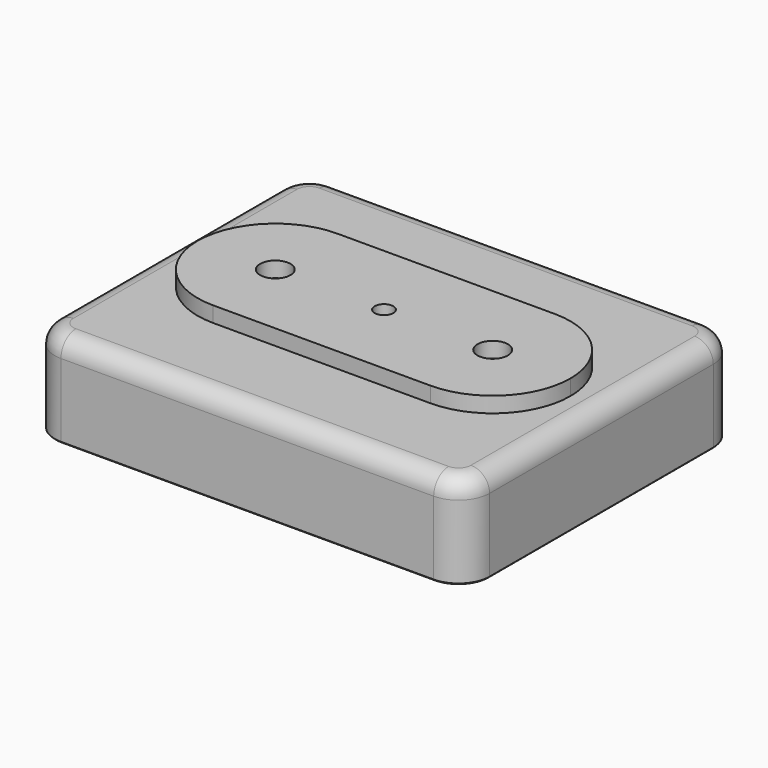
from build123d import *

# Parameters (mm, degrees)
F1_DEPTH = 38.1
F2_R     = 7.62
F3_R     = 12.7
F3_R_2   = 5.715
F4_DEPTH = 12.7
F5_DEPTH = 38.101
F6_SIZE  = 0.508
F7_R     = 6.223
F7_R_2   = 3.81
F8_DEPTH = 6.35


with BuildPart() as f1:
    # F0 (on Top) → F1 (new body)
    with BuildSketch(Plane.XY):
        with BuildLine():
            Line((76.2, 69.85), (-76.2, 69.85))
            ThreePointArc((-76.2, 69.85), (-85.180256, 66.130256), (-88.9, 57.15))
            Line((-88.9, 57.15), (-88.9, -57.15))
            ThreePointArc((-88.9, -57.15), (-85.180256, -66.130256), (-76.2, -69.85))
            Line((-76.2, -69.85), (76.2, -69.85))
            ThreePointArc((76.2, -69.85), (85.180256, -66.130256), (88.9, -57.15))
            Line((88.9, -57.15), (88.9, 57.15))
            ThreePointArc((88.9, 57.15), (85.180256, 66.130256), (76.2, 69.85))
        make_face()
    extrude(amount=-F1_DEPTH)

    # F2
    f2_edges = [f1.edges().sort_by_distance(p)[0] for p in [
        (0, -69.85, 0),
    ]]
    fillet(f2_edges, radius=F2_R)

    # F3 (on face) → F4 (cut)
    with BuildSketch(Plane(origin=(0, 0, -38.1), x_dir=(1, 0, 0), z_dir=(0, 0, -1))):
        with Locations((-44.45, 0)):
            Circle(F3_R)
        with Locations((-44.45, 0)):
            Circle(F3_R_2, mode=Mode.SUBTRACT)
        with Locations((-44.45, 0)):
            Circle(F3_R_2)
        with Locations((44.45, 0)):
            Circle(F3_R)
        with Locations((44.45, 0)):
            Circle(F3_R_2, mode=Mode.SUBTRACT)
        with Locations((44.45, 0)):
            Circle(F3_R_2)
    extrude(amount=-F4_DEPTH, mode=Mode.SUBTRACT)

    # F3 (on face) → F5 (cut, through all)
    with BuildSketch(Plane(origin=(0, 0, -38.1), x_dir=(1, 0, 0), z_dir=(0, 0, -1))):
        with Locations((-44.45, 0)):
            Circle(F3_R_2)
        with Locations((44.45, 0)):
            Circle(F3_R_2)
    extrude(amount=-F5_DEPTH, mode=Mode.SUBTRACT)

    # F6
    f6_edges = [f1.edges().sort_by_distance(p)[0] for p in [
        (0, -69.85, -38.1),
        (-57.15, 0, -38.1),
        (31.75, 0, -38.1),
        (38.735, 0, -25.4),
        (-50.165, 0, -25.4),
        (38.735, 0, 0),
        (-50.165, 0, 0),
    ]]
    chamfer(f6_edges, length=F6_SIZE)


with BuildPart() as f8:
    # F7 (on face) → F8 (new body)
    with BuildSketch(Plane.XY):
        with BuildLine():
            Line((44.45, 31.75), (-44.45, 31.75))
            ThreePointArc((-44.45, 31.75), (-66.90064, 22.45064), (-76.2, 0))
            ThreePointArc((-76.2, 0), (-66.90064, -22.45064), (-44.45, -31.75))
            Line((-44.45, -31.75), (44.45, -31.75))
            ThreePointArc((44.45, -31.75), (66.90064, -22.45064), (76.2, 0))
            ThreePointArc((76.2, 0), (66.90064, 22.45064), (44.45, 31.75))
        make_face()
        with Locations((-44.45, 0)):
            Circle(F7_R, mode=Mode.SUBTRACT)
        Circle(F7_R_2, mode=Mode.SUBTRACT)
        with Locations((44.45, 0)):
            Circle(F7_R, mode=Mode.SUBTRACT)
        with BuildLine():
            Line((44.45, 31.75), (-44.45, 31.75))
            ThreePointArc((-44.45, 31.75), (-66.90064, 22.45064), (-76.2, 0))
            ThreePointArc((-76.2, 0), (-66.90064, -22.45064), (-44.45, -31.75))
            Line((-44.45, -31.75), (44.45, -31.75))
            ThreePointArc((44.45, -31.75), (66.90064, -22.45064), (76.2, 0))
            ThreePointArc((76.2, 0), (66.90064, 22.45064), (44.45, 31.75))
        make_face()
        with Locations((-44.45, 0)):
            Circle(F7_R, mode=Mode.SUBTRACT)
        Circle(F7_R_2, mode=Mode.SUBTRACT)
        with Locations((44.45, 0)):
            Circle(F7_R, mode=Mode.SUBTRACT)
        with BuildLine():
            Line((44.45, 31.75), (-44.45, 31.75))
            ThreePointArc((-44.45, 31.75), (-66.90064, 22.45064), (-76.2, 0))
            ThreePointArc((-76.2, 0), (-66.90064, -22.45064), (-44.45, -31.75))
            Line((-44.45, -31.75), (44.45, -31.75))
            ThreePointArc((44.45, -31.75), (66.90064, -22.45064), (76.2, 0))
            ThreePointArc((76.2, 0), (66.90064, 22.45064), (44.45, 31.75))
        make_face()
        with Locations((-44.45, 0)):
            Circle(F7_R, mode=Mode.SUBTRACT)
        Circle(F7_R_2, mode=Mode.SUBTRACT)
        with Locations((44.45, 0)):
            Circle(F7_R, mode=Mode.SUBTRACT)
    extrude(amount=F8_DEPTH)


solid = Compound([f1.part, f8.part])
